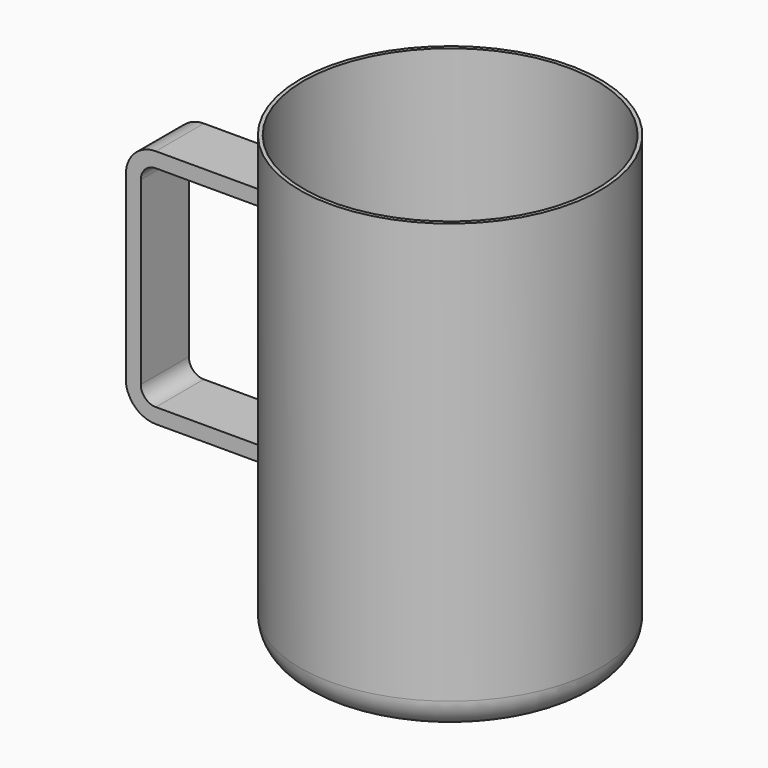
from build123d import *

# Parameters (mm, degrees)
F4_DEPTH = 25.4


with BuildPart() as f1:
    # F0 (on Front) → F1 (revolve)
    with BuildSketch(Plane.XZ):
        with BuildLine():
            Line((-101.6, 0), (0, 0))
            Line((0, 0), (0, 3.175))
            Line((0, 3.175), (-101.6, 3.175))
            ThreePointArc((-101.6, 3.175), (-117.315448, 9.684552), (-123.825, 25.4))
            Line((-123.825, 25.4), (-123.825, 381))
            Line((-123.825, 381), (-127, 381))
            Line((-127, 381), (-127, 25.4))
            ThreePointArc((-127, 25.4), (-119.560512, 7.439488), (-101.6, 0))
        make_face()
    revolve(axis=Axis((0, 0, 67.008436), (0, 0, 1)))

    # F3 (on Front) → F4 (join, symmetric)
    with BuildSketch(Plane.XZ):
        with BuildLine():
            Line((-228.6, 292.1), (-127, 292.1))
            Line((-127, 292.1), (-127, 304.8))
            Line((-127, 304.8), (-228.6, 304.8))
            ThreePointArc((-228.6, 304.8), (-246.560512, 297.360512), (-254, 279.4))
            Line((-254, 279.4), (-254, 127))
            ThreePointArc((-254, 127), (-246.560512, 109.039488), (-228.6, 101.6))
            Line((-228.6, 101.6), (-127, 101.6))
            Line((-127, 101.6), (-127, 114.3))
            Line((-127, 114.3), (-228.6, 114.3))
            ThreePointArc((-228.6, 114.3), (-237.580256, 118.019744), (-241.3, 127))
            Line((-241.3, 127), (-241.3, 279.4))
            ThreePointArc((-241.3, 279.4), (-237.580256, 288.380256), (-228.6, 292.1))
        make_face()
    extrude(amount=F4_DEPTH, both=True)


solid = f1.part
